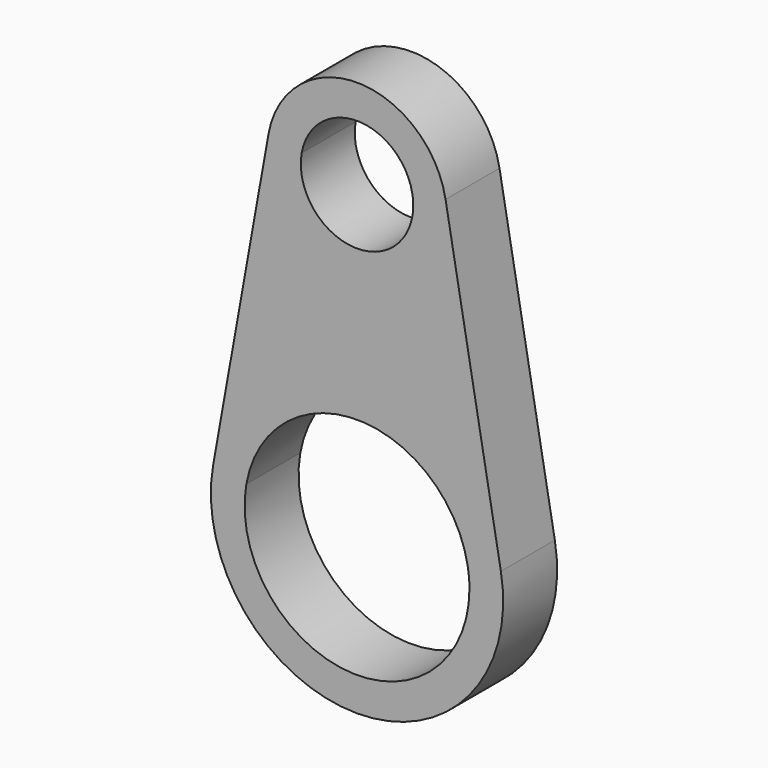
from build123d import *

# Parameters (mm, degrees)
F1_DEPTH = 3


with BuildPart() as f1:
    # F0 (on Front) → F1 (new body)
    with BuildSketch(Plane.XZ):
        with BuildLine():
            Line((6.398506, 1.144165), (3.937542, 14.906594))
            ThreePointArc((3.937542, 14.906594), (0, 18.202492), (-3.937542, 14.906594))
            Line((-3.937542, 14.906594), (-6.398506, 1.144165))
            ThreePointArc((-6.398506, 1.144165), (0, -6.5), (6.398506, 1.144165))
        make_face()
        with BuildLine():
            ThreePointArc((4.921928, 0.880127), (4.980444, 0.441792), (5, 0))
            ThreePointArc((5, 0), (-0.441792, -4.980444), (-4.921928, 0.880127))
            ThreePointArc((-4.921928, 0.880127), (0, 5), (4.921928, 0.880127))
        make_face(mode=Mode.SUBTRACT)
        with BuildLine():
            ThreePointArc((2.460964, 14.642556), (2.490222, 14.423388), (2.5, 14.202493))
            ThreePointArc((2.5, 14.202493), (-0.220896, 11.712271), (-2.460964, 14.642556))
            ThreePointArc((-2.460964, 14.642556), (0, 16.702493), (2.460964, 14.642556))
        make_face(mode=Mode.SUBTRACT)
    extrude(amount=F1_DEPTH)


solid = f1.part
